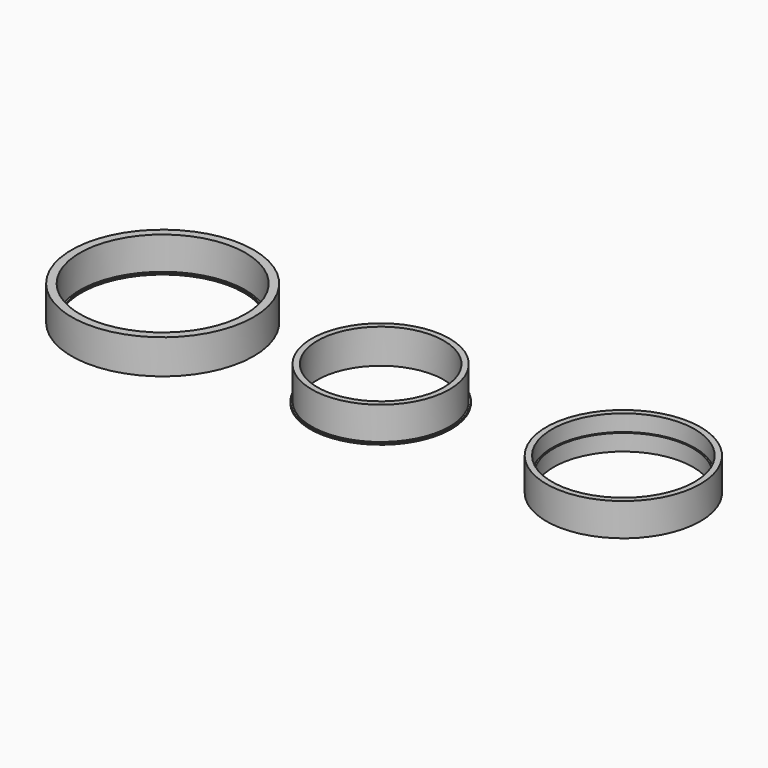
from build123d import *

# Parameters (mm, degrees)
F0_R      = 21.5
F0_R_2    = 19.25
F1_DEPTH  = 0.5
F2_R      = 21
F2_R_2    = 19.25
F3_DEPTH  = 10
F4_R      = 23.5
F4_R_2    = 21.25
F5_DEPTH  = 5
F6_R      = 23.5
F6_R_2    = 21.75
F7_DEPTH  = 5
F8_R      = 27.75
F8_R_2    = 24.75
F9_DEPTH  = 0.5
F10_R     = 27.75
F10_R_2   = 25.25
F11_DEPTH = 10


with BuildPart() as f1:
    # F0 (on Top) → F1 (new body)
    with BuildSketch(Plane.XY):
        Circle(F0_R)
        Circle(F0_R_2, mode=Mode.SUBTRACT)
    extrude(amount=F1_DEPTH)

    # F2 (on face) → F3 (join)
    with BuildSketch(Plane.XY.offset(0.5)):
        Circle(F2_R)
        Circle(F2_R_2, mode=Mode.SUBTRACT)
    extrude(amount=F3_DEPTH)


with BuildPart() as f5:
    # F4 (on Top) → F5 (new body)
    with BuildSketch(Plane.XY):
        with Locations((73.987961, 0)):
            Circle(F4_R)
        with Locations((73.987961, 0)):
            Circle(F4_R_2, mode=Mode.SUBTRACT)
    extrude(amount=F5_DEPTH)

    # F6 (on face) → F7 (join)
    with BuildSketch(Plane.XY.offset(5)):
        with Locations((73.987961, 0)):
            Circle(F6_R)
        with Locations((73.987961, 0)):
            Circle(F6_R_2, mode=Mode.SUBTRACT)
    extrude(amount=F7_DEPTH)


with BuildPart() as f9:
    # F8 (on Top) → F9 (new body)
    with BuildSketch(Plane.XY):
        with Locations((-66.447794, 0)):
            Circle(F8_R)
        with Locations((-66.447794, 0)):
            Circle(F8_R_2, mode=Mode.SUBTRACT)
    extrude(amount=F9_DEPTH)

    # F10 (on face) → F11 (join)
    with BuildSketch(Plane.XY.offset(0.5)):
        with Locations((-66.447794, 0)):
            Circle(F10_R)
        with Locations((-66.447794, 0)):
            Circle(F10_R_2, mode=Mode.SUBTRACT)
    extrude(amount=F11_DEPTH)


solid = Compound([f1.part, f5.part, f9.part])
